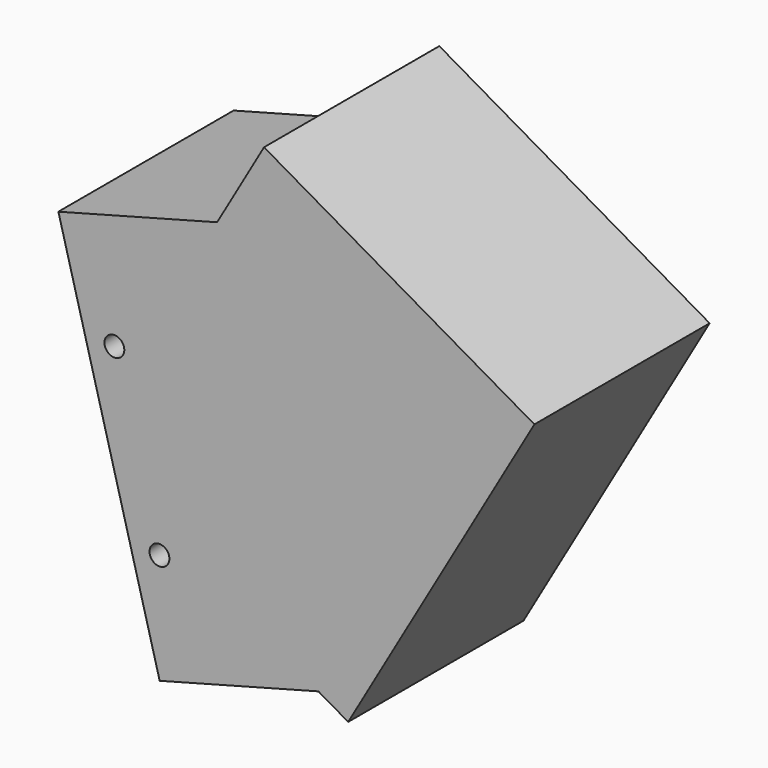
from build123d import *

# Parameters (mm, degrees)
F1_DEPTH = 127
F3_D     = 11.50874


with BuildPart() as f1:
    # F0 (on Front) → F1 (new body)
    with BuildSketch(Plane.XZ):
        Polygon((-17.2676805261, 9.9695), (0, 0), (107.95, 186.9748846771), (-48.7789474499, 277.4623846771), (-75.9950474499, 230.3227166932), align=None)
        Polygon((-109.30504021, -14.5598074182), (-17.2676805261, 9.9695), (-75.9950474499, 230.3227166932), (-168.0324071338, 205.793409275), align=None)
    extrude(amount=F1_DEPTH)

    # F3 (through all)
    with Locations(Plane(origin=(0, 0, 0), x_dir=(-1, 0, 0), z_dir=(0, 1, 0))):
        with Locations((135.5653803393, 147.6389341555), (109.4138680572, 49.5148370845)):
            Hole(F3_D / 2)


solid = f1.part
